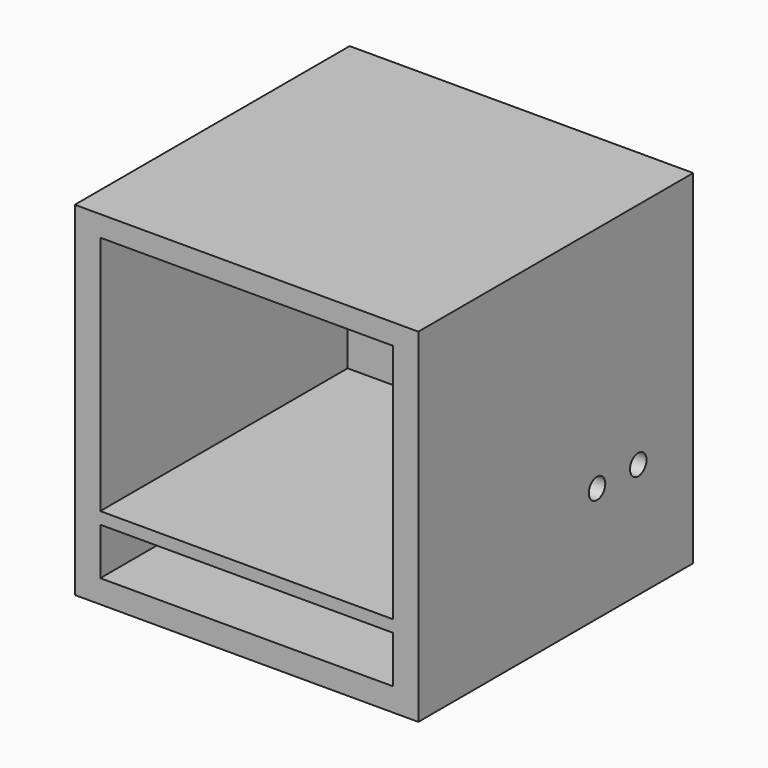
from build123d import *

# Parameters (mm, degrees)
BOX_W           = 200
BOX_H           = 200
BOX_DEPTH       = 200
SKETCH_W        = 170.31563
SKETCH_H        = 140.120693
SKETCH_W_2      = 170.274007
SKETCH_H_2      = 27.404772
POCKET_DEPTH    = 180
SKETCH001_R     = 6
POCKET004_DEPTH = 20


with BuildPart() as part:
    # Box → Box (new body)
    with BuildSketch(Plane.XY):
        with Locations((100, 100)):
            Rectangle(BOX_W, BOX_H)
    extrude(amount=BOX_DEPTH)

    # Sketch → Pocket (cut)
    with BuildSketch(Plane.XZ):
        with Locations((99.987303, 117.884569)):
            Rectangle(SKETCH_W, SKETCH_H)
        with Locations((99.992803, 27.16207)):
            Rectangle(SKETCH_W_2, SKETCH_H_2)
    extrude(amount=-POCKET_DEPTH, mode=Mode.SUBTRACT)

    # Sketch001 → Pocket004 (cut)
    with BuildSketch(Plane.YZ.offset(200)):
        with Locations((130.008312, 66.836238)):
            Circle(SKETCH001_R)
        with Locations((160.008312, 66.836238)):
            Circle(SKETCH001_R)
    extrude(amount=-POCKET004_DEPTH, mode=Mode.SUBTRACT)


solid = part.part
